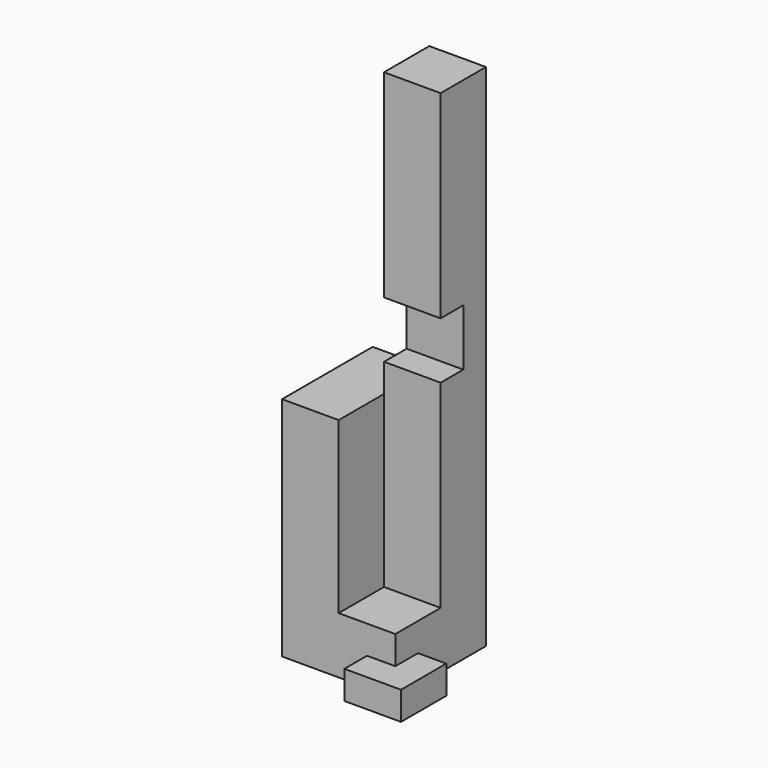
from build123d import *

# Parameters (mm, degrees)
F0_W     = 10.16
F0_H     = 10.16
F1_DEPTH = 5.08
F2_W     = 5.08
F2_H     = 5.08
F3_DEPTH = 2.54
F4_W     = 5.08
F4_H     = 5.08
F5_DEPTH = 40.64
F6_W     = 5.08
F6_H     = 5.08
F7_DEPTH = 25.4
F8_W     = 5.08
F8_H     = 10.16
F9_DEPTH = 15.24


with BuildPart() as f1:
    # F0 (on Top) → F1 (new body)
    with BuildSketch(Plane.XY):
        with Locations((5.08, -5.08)):
            Rectangle(F0_W, F0_H)
    extrude(amount=F1_DEPTH)

    # F2 (on face) → F3 (join)
    with BuildSketch(Plane(origin=(0, 0, 0), x_dir=(1, 0, 0), z_dir=(0, 0, -1))):
        with Locations((10.16, 10.16)):
            Rectangle(F2_W, F2_H)
    extrude(amount=-F3_DEPTH)

    # F4 (on face) → F5 (join)
    with BuildSketch(Plane.XY.offset(5.08)):
        with Locations((7.62, -2.54)):
            Rectangle(F4_W, F4_H)
    extrude(amount=F5_DEPTH)

    # F6 (on face) → F7 (cut)
    with BuildSketch(Plane.YZ.offset(10.16)):
        with Locations((-5.08, 25.4)):
            Rectangle(F6_W, F6_H)
    extrude(amount=-F7_DEPTH, mode=Mode.SUBTRACT)

    # F8 (on face) → F9 (join)
    with BuildSketch(Plane.XY.offset(5.08)):
        with Locations((2.54, -5.08)):
            Rectangle(F8_W, F8_H)
    extrude(amount=F9_DEPTH)


solid = f1.part
